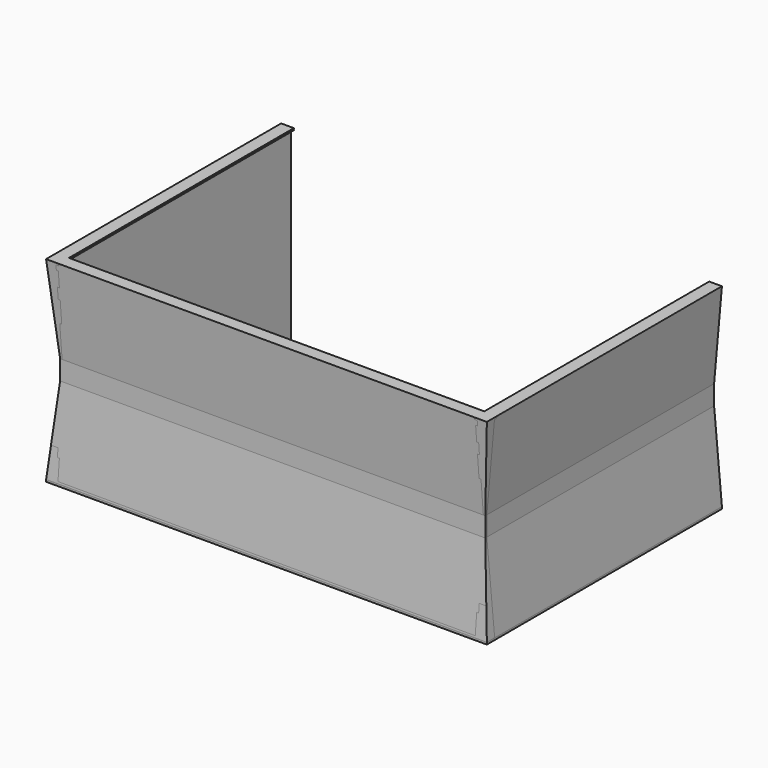
from build123d import *

# Parameters (mm, degrees)
EXTRUDE001_DEPTH               = 300
EXTRUDE002_DEPTH               = 300
EXTRUDE002_PLACEMENT_ANGLE     = 180
EXTRUDE004_DEPTH               = 2
EXTRUDE003_DEPTH               = 2
SKETCH_W                       = 449.952683
SKETCH_H                       = 299.978927
EXTRUDE_DEPTH                  = 2
FUSION_PLACEMENT_ANGLE         = 180
BASEFEATURE001_PLACEMENT_ANGLE = 180
POCKET001_DEPTH                = 825.012353
EXTRUDE005_DEPTH               = 450
POCKET_DEPTH                   = 250
POCKET002_DEPTH                = 500


with BuildPart() as right:
    # Wire → Extrude001 (new body)
    with BuildSketch(Plane(origin=(218.5150455, 150, 100.0712645), x_dir=(1, 0, 0), z_dir=(0, 1, 0))):
        Polygon((6.4963075, 100.0846805), (-3.4711005, 100.0846805), (-3.4711005, -98.1016935), (-6.4963075, -98.1016935), (-6.4963075, -98.7846775), (-5.4995125, -98.7846775), (-5.4995125, -99.4307345), (-6.4963075, -99.4307345), (-6.4963075, -100.0846805), (6.4963075, -100.0846805), (-1.4816445, -9.9001025), (-1.4816445, 10.1120285), (6.4963075, 98.0725005), align=None)
    extrude(amount=-EXTRUDE001_DEPTH)


with BuildPart() as left:
    # Wire001 → Extrude002 (new body)
    with BuildSketch(Plane(origin=(218.5150455, 150, 100.0712645), x_dir=(1, 0, 0), z_dir=(0, 1, 0))):
        Polygon((6.4963075, 100.0846805), (-3.4711005, 100.0846805), (-3.4711005, -98.1016935), (-6.4963075, -98.1016935), (-6.4963075, -98.7846775), (-5.4995125, -98.7846775), (-5.4995125, -99.4307345), (-6.4963075, -99.4307345), (-6.4963075, -100.0846805), (6.4963075, -100.0846805), (-1.4816445, -9.9001025), (-1.4816445, 10.1120285), (6.4963075, 98.0725005), align=None)
    extrude(amount=-EXTRUDE002_DEPTH)


with BuildPart() as left_1:
    # Extrude002 placement: moved
    add(left.part.rotate(Axis((0, 0, 0), (0, 0, 1)), EXTRUDE002_PLACEMENT_ANGLE))


with BuildPart() as inner_back_holder:
    # Sketch002 → Extrude004 (new body)
    with BuildSketch(Plane.XZ.offset(150)):
        Polygon((-213.019012, 3.99983), (-213.019012, 192.972672), (-216.785446, 192.972672), (-216.785446, 0.188954), (216.195801, 0.188954), (216.195801, 193.007004), (213.035522, 193.006973), (213.035522, 3.99983), align=None)
    extrude(amount=-EXTRUDE004_DEPTH)


with BuildPart() as inner_back_holder_1:
    # Extrude004 placement: moved
    add(inner_back_holder.part.moved(Location((0, 3, 0))))


with BuildPart() as outer_back_holder:
    # Sketch001 → Extrude003 (new body)
    with BuildSketch(Plane.XZ.offset(150)):
        Polygon((-213.019012, 3.99983), (-213.019012, 192.972672), (-216.785446, 192.972672), (-216.785446, 0.188954), (216.195801, 0.188954), (216.195801, 193.007004), (213.035522, 193.006973), (213.035522, 3.99983), align=None)
    extrude(amount=-EXTRUDE003_DEPTH)


with BuildPart() as main_body:
    # Sketch → Extrude (new body)
    with BuildSketch(Plane.XY):
        with Locations((-0.0037765, 0.0109025)):
            Rectangle(SKETCH_W, SKETCH_H)
    extrude(amount=EXTRUDE_DEPTH)

    # Fusion: union Right, Left, Inner-Back-Holder, Outer-Back-Holder
    add(right.part)
    add(left_1.part)
    add(inner_back_holder_1.part)
    add(outer_back_holder.part)


with BuildPart() as main_body_1:
    # Fusion placement: moved
    add(main_body.part.rotate(Axis((0, 0, 0), (0, 0, 1)), FUSION_PLACEMENT_ANGLE))


with BuildPart() as main_body_2:
    # BaseFeature001 placement: moved
    add(main_body_1.part.rotate(Axis((0, 0, 0), (0, 0, -1)), BASEFEATURE001_PLACEMENT_ANGLE))

    # Sketch004 → Pocket001 (cut, through all)
    with BuildSketch(Plane.YZ.offset(600)):
        Polygon((-150.000214, 200.026337), (-150.207199, 200.026337), (-150.207199, 2.124103), (-150, 2.124103), (-142.033401, 89.958923), (-142.033401, 109.971352), align=None)
    extrude(amount=-POCKET001_DEPTH, mode=Mode.SUBTRACT)


with BuildPart() as main_body001:
    # Wire002 → Extrude005 (new body)
    with BuildSketch(Plane(origin=(150, -218.5150455, 100.0712645), x_dir=(0, -1, 0), z_dir=(1, 0, 0))):
        Polygon((6.4963075, 100.0846805), (-3.4711005, 100.0846805), (-3.4711005, -98.1016935), (-6.4963075, -98.1016935), (-6.4963075, -98.7846775), (-5.4995125, -98.7846775), (-5.4995125, -99.4307345), (-6.4963075, -99.4307345), (-6.4963075, -100.0846805), (6.4963075, -100.0846805), (-1.4816445, -9.9001025), (-1.4816445, 10.1120285), (6.4963075, 98.0725005), align=None)
    extrude(amount=EXTRUDE005_DEPTH)


with BuildPart() as main_body001_1:
    # Extrude005 placement: moved
    add(main_body001.part.moved(Location((-375, 75, 0))))


with BuildPart() as main_body001_2:
    # BaseFeature placement: moved
    add(main_body001_1.part.moved(Location((375, -75, 0))))

    # Sketch003 → Pocket (cut, symmetric)
    with BuildSketch(Plane(origin=(375, 0, 0), x_dir=(1, 0, 0), z_dir=(0, -1, 0))):
        Polygon((-224.999924, 200.057419), (-217.03331, 109.971413), (-217.03331, 89.959267), (-224.999924, 2.122504), (-227.360413, 2.122504), (-227.360413, 200.057419), align=None)
    extrude(amount=POCKET_DEPTH, both=True, mode=Mode.SUBTRACT)

    # Sketch005 → Pocket002 (cut)
    with BuildSketch(Plane(origin=(375, -300, 0), x_dir=(1, 0, 0), z_dir=(0, -1, 0))):
        Polygon((225.000046, 200.027863), (225.188705, 200.027863), (225.188705, 2.123739), (225.000061, 2.123739), (217.034546, 89.959541), (217.034546, 109.969955), align=None)
    extrude(amount=-POCKET002_DEPTH, mode=Mode.SUBTRACT)


with BuildPart() as main_body001_3:
    # Body placement: moved
    add(main_body001_2.part.moved(Location((-375, 75, 0))))

    # Fusion001: union  Main Body
    add(main_body_2.part)


solid = main_body001_3.part
